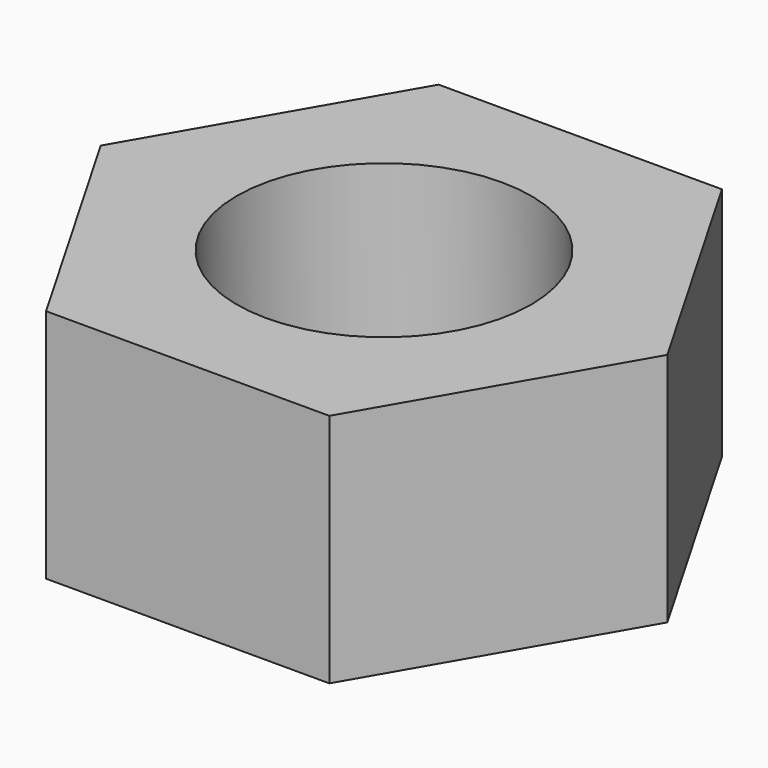
from build123d import *

# Parameters (mm, degrees)
F1_DEPTH = 7.62
F2_R     = 4.7625
F3_DEPTH = 25.4


with BuildPart() as f1:
    # F0 (on Top) → F1 (new body)
    with BuildSketch(Plane.XY):
        Polygon((4.582718, 7.9375), (-4.582718, 7.9375), (-9.165436, 0), (-4.582718, -7.9375), (4.582718, -7.9375), (9.165436, 0), align=None)
    extrude(amount=F1_DEPTH)

    # F2 (on face) → F3 (cut)
    with BuildSketch(Plane(origin=(0, 0, 0), x_dir=(1, 0, 0), z_dir=(0, 0, -1))):
        Circle(F2_R)
    extrude(amount=-F3_DEPTH, mode=Mode.SUBTRACT)


solid = f1.part
